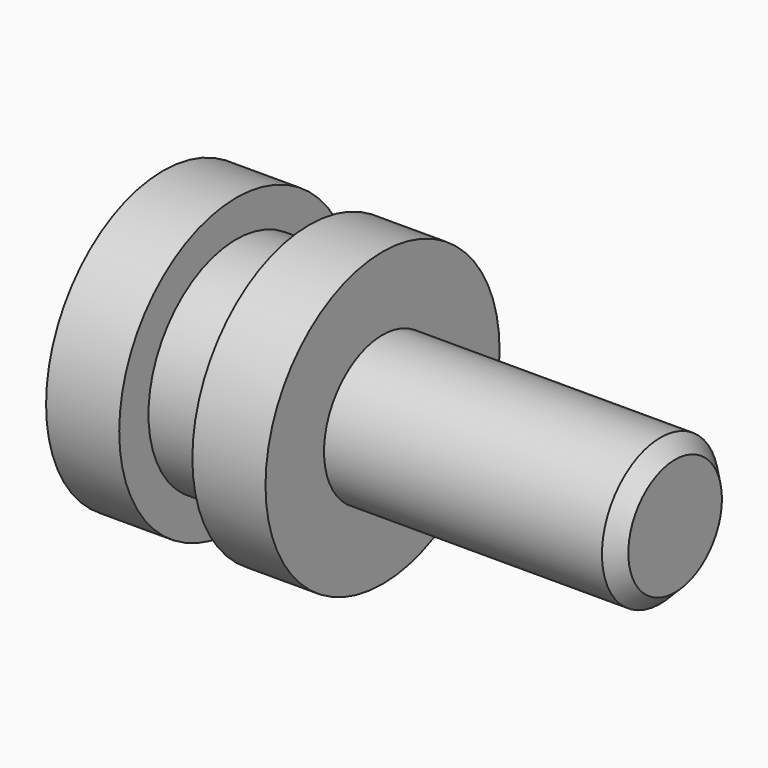
from build123d import *

# Parameters (mm, degrees)
F0_R     = 10
F1_DEPTH = 5
F2_R     = 7.5
F3_DEPTH = 5
F4_R     = 10
F5_DEPTH = 5
F6_R     = 5
F7_DEPTH = 20
F8_SIZE  = 1


with BuildPart() as f1:
    # F0 (on Right) → F1 (new body)
    with BuildSketch(Plane.YZ):
        Circle(F0_R)
    extrude(amount=F1_DEPTH)

    # F2 (on face) → F3 (join)
    with BuildSketch(Plane.YZ.offset(5)):
        Circle(F2_R)
    extrude(amount=F3_DEPTH)

    # F4 (on face) → F5 (join)
    with BuildSketch(Plane.YZ.offset(10)):
        Circle(F4_R)
    extrude(amount=F5_DEPTH)

    # F6 (on face) → F7 (join)
    with BuildSketch(Plane.YZ.offset(15)):
        Circle(F6_R)
    extrude(amount=F7_DEPTH)

    # F8
    f8_edges = [f1.edges().sort_by_distance(p)[0] for p in [
        (35, -5, 0),
    ]]
    chamfer(f8_edges, length=F8_SIZE)


solid = f1.part
